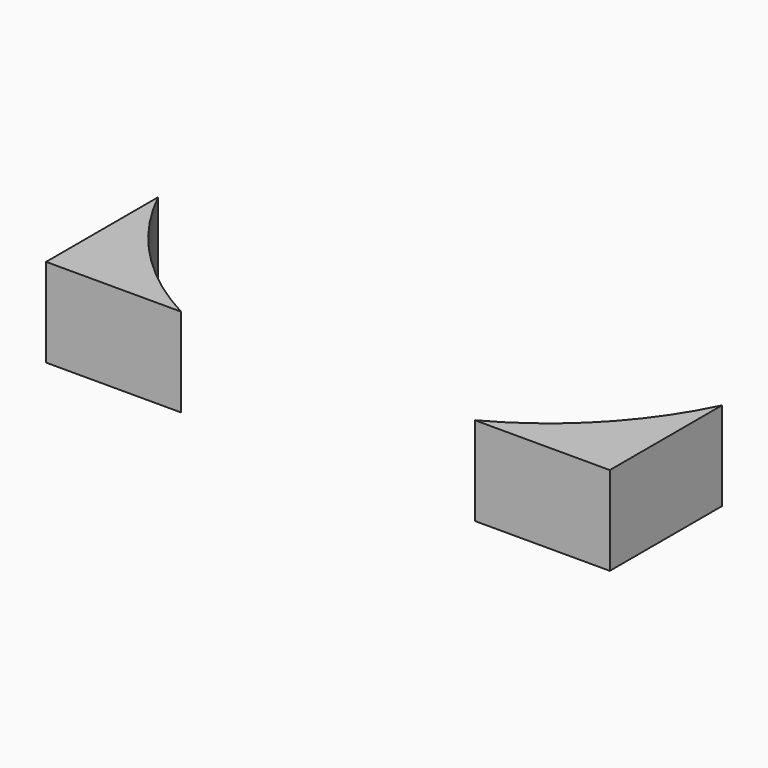
from build123d import *

# Parameters (mm, degrees)
CYLINDER122_R               = 1.5
CYLINDER122_DEPTH           = 4
CYLINDER124_R               = 1.5
CYLINDER124_DEPTH           = 100
BOX039_W                    = 2
BOX039_H                    = 6
BOX039_DEPTH                = 6
COMPOUND158_PLACEMENT_ANGLE = 90
CYLINDER123_R               = 1.5
CYLINDER123_DEPTH           = 4
CYLINDER126_R               = 1.5
CYLINDER126_DEPTH           = 100
BOX038_W                    = 2
BOX038_H                    = 6
BOX038_DEPTH                = 6
COMPOUND159_PLACEMENT_ANGLE = 90
CYLINDER125_R               = 60
CYLINDER125_DEPTH           = 17
BOX040_W                    = 108
BOX040_H                    = 46
BOX040_DEPTH                = 17


with BuildPart() as obj1:
    # Cylinder122 → Cylinder122 (new body)
    with BuildSketch(Plane(origin=(-4, 3, 3), x_dir=(0, 0, -1), z_dir=(1, 0, 0))):
        Circle(CYLINDER122_R)
    extrude(amount=CYLINDER122_DEPTH)


with BuildPart() as obj2:
    # Cylinder124 → Cylinder124 (new body)
    with BuildSketch(Plane(origin=(2, 3, 3), x_dir=(0, 0, -1), z_dir=(1, 0, 0))):
        Circle(CYLINDER124_R)
    extrude(amount=CYLINDER124_DEPTH)


with BuildPart() as compound158:
    # Box039 → Box039 (new body)
    with BuildSketch(Plane.XY):
        with Locations((1, 3)):
            Rectangle(BOX039_W, BOX039_H)
    extrude(amount=BOX039_DEPTH)

    # Compound158: union obj1, obj2
    add(obj1.part)
    add(obj2.part)


with BuildPart() as compound158_1:
    # Compound158 placement: moved
    add(compound158.part.moved(Location((-54, 166, 27))).rotate(Axis((-54, 166, 27), (0, 0, -1)), COMPOUND158_PLACEMENT_ANGLE))


with BuildPart() as obj3:
    # Cylinder123 → Cylinder123 (new body)
    with BuildSketch(Plane(origin=(-4, 3, 3), x_dir=(0, 0, -1), z_dir=(1, 0, 0))):
        Circle(CYLINDER123_R)
    extrude(amount=CYLINDER123_DEPTH)


with BuildPart() as obj4:
    # Cylinder126 → Cylinder126 (new body)
    with BuildSketch(Plane(origin=(2, 3, 3), x_dir=(0, 0, -1), z_dir=(1, 0, 0))):
        Circle(CYLINDER126_R)
    extrude(amount=CYLINDER126_DEPTH)


with BuildPart() as fusion004:
    # Box038 → Box038 (new body)
    with BuildSketch(Plane.XY):
        with Locations((1, 3)):
            Rectangle(BOX038_W, BOX038_H)
    extrude(amount=BOX038_DEPTH)

    # Compound159: union obj3, obj4
    add(obj3.part)
    add(obj4.part)


with BuildPart() as fusion004_1:
    # Compound159 placement: moved
    add(fusion004.part.moved(Location((48, 166, 27))).rotate(Axis((48, 166, 27), (0, 0, -1)), COMPOUND159_PLACEMENT_ANGLE))

    # Fusion004: union Compound158
    add(compound158_1.part)


with BuildPart() as obj5:
    # Cylinder125 → Cylinder125 (new body)
    with BuildSketch(Plane.XY.offset(20)):
        Circle(CYLINDER125_R)
    extrude(amount=CYLINDER125_DEPTH)


with BuildPart() as cut059:
    # Box040 → Box040 (new body)
    with BuildSketch(Plane(origin=(-54, -53, 20), x_dir=(1, 0, 0), z_dir=(0, 0, 1))):
        with Locations((54, 23)):
            Rectangle(BOX040_W, BOX040_H)
    extrude(amount=BOX040_DEPTH)

    # Cut058: cut obj5
    add(obj5.part, mode=Mode.SUBTRACT)

    # Cut059: cut Fusion004
    add(fusion004_1.part, mode=Mode.SUBTRACT)


solid = cut059.part
